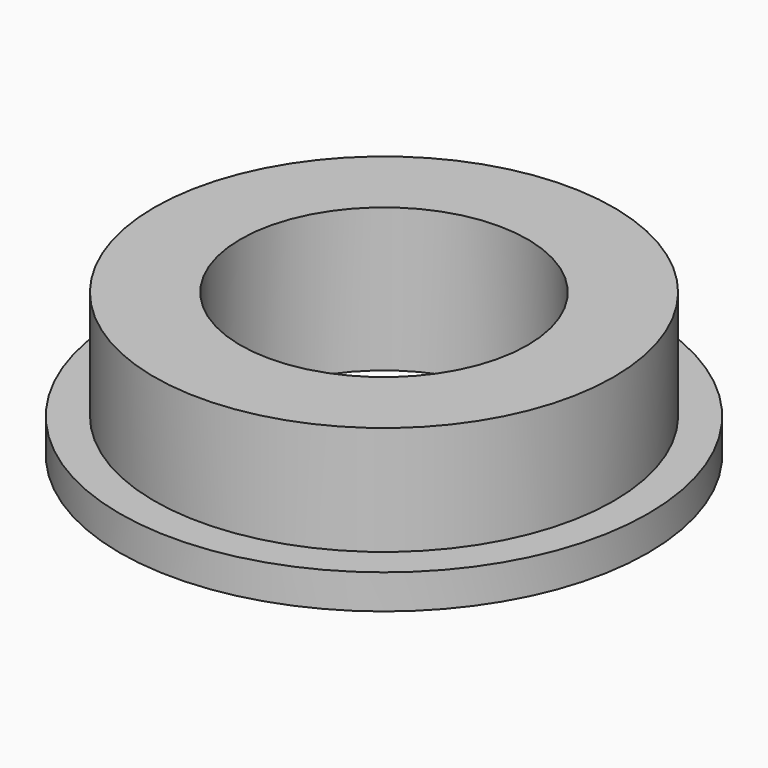
from build123d import *

# Parameters (mm, degrees)
CYLINDER006_R     = 2.5
CYLINDER006_DEPTH = 6
CYLINDER004_R     = 4.6
CYLINDER004_DEPTH = 0.6
CYLINDER005_R     = 4
CYLINDER005_DEPTH = 2.5


with BuildPart() as cylinder006:
    # Cylinder006 → Cylinder006 (new body)
    with BuildSketch(Plane.XY):
        Circle(CYLINDER006_R)
    extrude(amount=CYLINDER006_DEPTH)


with BuildPart() as cylinder004:
    # Cylinder004 → Cylinder004 (new body)
    with BuildSketch(Plane.XY):
        Circle(CYLINDER004_R)
    extrude(amount=CYLINDER004_DEPTH)


with BuildPart() as cut001002:
    # Cylinder005 → Cylinder005 (new body)
    with BuildSketch(Plane.XY):
        Circle(CYLINDER005_R)
    extrude(amount=CYLINDER005_DEPTH)

    # Fusion002: union Cylinder004
    add(cylinder004.part)

    # Cut001002: cut Cylinder006
    add(cylinder006.part, mode=Mode.SUBTRACT)


solid = cut001002.part
